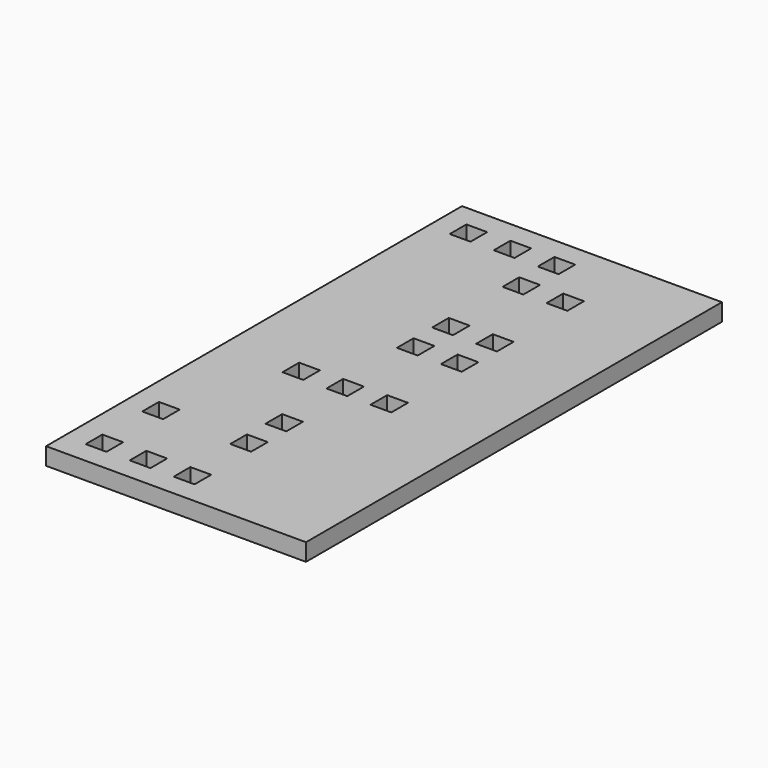
from build123d import *

# Parameters (mm, degrees)
F0_W     = 15
F0_H     = 30
F1_DEPTH = 1
F2_W     = 1.2
F2_H     = 1.2
F3_DEPTH = 25


with BuildPart() as f1:
    # F0 (on Top) → F1 (new body)
    with BuildSketch(Plane.XY):
        with Locations((-7.5, 15)):
            Rectangle(F0_W, F0_H)
    extrude(amount=F1_DEPTH)

    # F2 (on face) → F3 (cut)
    with BuildSketch(Plane.XY.offset(1)):
        with Locations((-13.13, 28.13)):
            Rectangle(F2_W, F2_H)
        with Locations((-10.59, 28.13)):
            Rectangle(F2_W, F2_H)
        with Locations((-8.05, 28.13)):
            Rectangle(F2_W, F2_H)
        with Locations((-8.05, 1.87)):
            Rectangle(F2_W, F2_H)
        with Locations((-10.59, 1.87)):
            Rectangle(F2_W, F2_H)
        with Locations((-13.13, 1.87)):
            Rectangle(F2_W, F2_H)
        with Locations((-8.05, 25.59)):
            Rectangle(F2_W, F2_H)
        with Locations((-8.05, 20.51)):
            Rectangle(F2_W, F2_H)
        with Locations((-8.05, 17.97)):
            Rectangle(F2_W, F2_H)
        with Locations((-8.05, 12.89)):
            Rectangle(F2_W, F2_H)
        with Locations((-5.51, 25.59)):
            Rectangle(F2_W, F2_H)
        with Locations((-5.51, 20.51)):
            Rectangle(F2_W, F2_H)
        with Locations((-5.51, 17.97)):
            Rectangle(F2_W, F2_H)
        with Locations((-5.51, 12.89)):
            Rectangle(F2_W, F2_H)
        with Locations((-10.59, 12.89)):
            Rectangle(F2_W, F2_H)
        with Locations((-8.05, 8.490591)):
            Rectangle(F2_W, F2_H)
        with Locations((-13.13, 5.950591)):
            Rectangle(F2_W, F2_H)
        with Locations((-8.05, 5.950591)):
            Rectangle(F2_W, F2_H)
    extrude(amount=-F3_DEPTH, mode=Mode.SUBTRACT)


solid = f1.part
